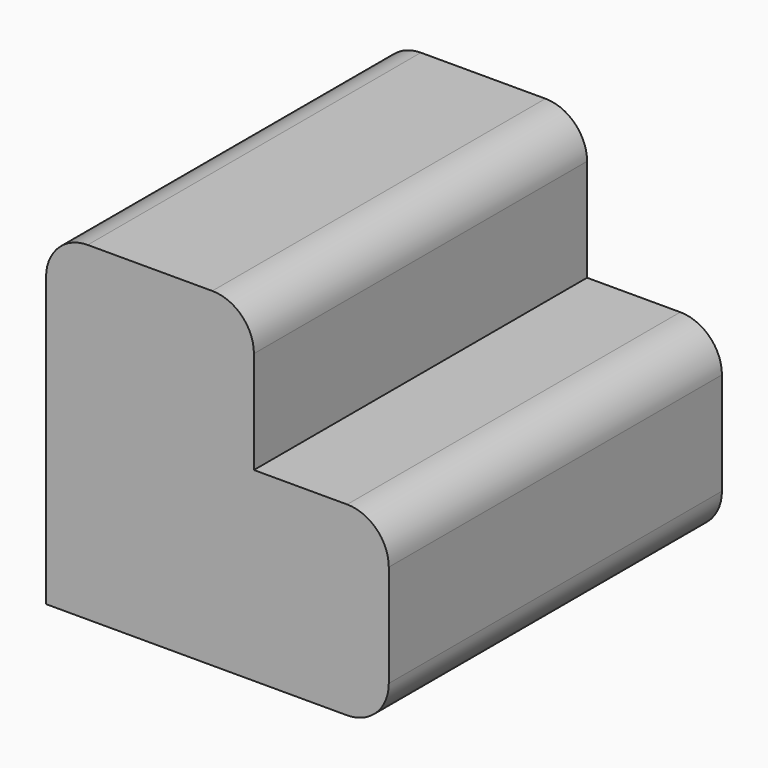
from build123d import *

# Parameters (mm, degrees)
F1_DEPTH = 50.8
F2_R     = 5.08


with BuildPart() as f1:
    # F0 (on Front) → F1 (new body)
    with BuildSketch(Plane.XZ):
        Polygon((0, 40.230382), (0, 0), (41.808043, 0), (41.808043, 22.650717), (25.355281, 22.650717), (25.355281, 40.230382), align=None)
    extrude(amount=F1_DEPTH)

    # F2
    f2_edges = [f1.edges().sort_by_distance(p)[0] for p in [
        (25.355281, -25.4, 40.230382),
        (41.808043, -25.4, 22.650717),
        (41.808043, -25.4, 0),
        (0, -25.4, 40.230382),
    ]]
    fillet(f2_edges, radius=F2_R)


solid = f1.part
